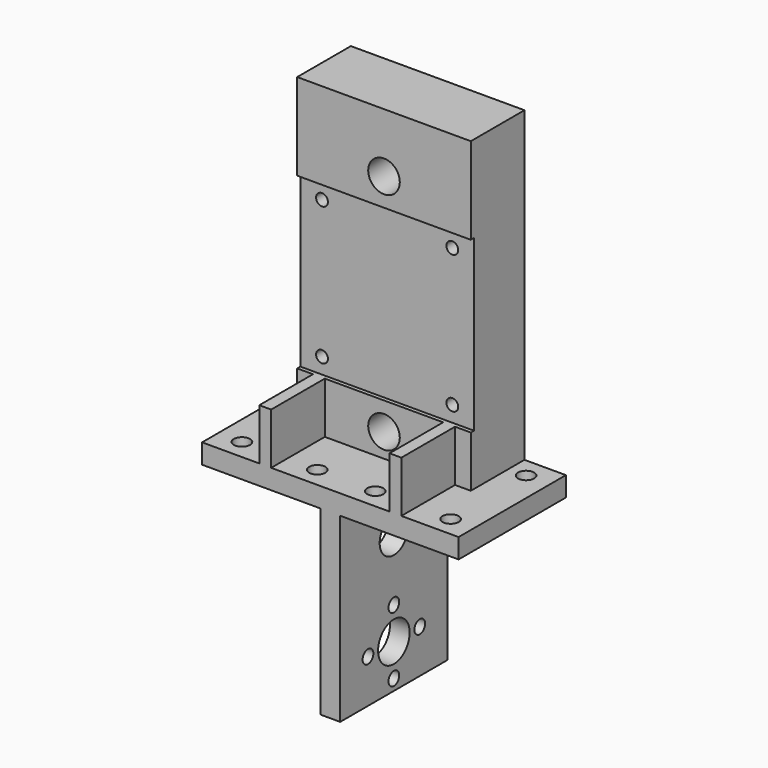
from build123d import *

# Parameters (mm, degrees)
BOX001_W        = 65
BOX001_H        = 34
BOX001_DEPTH    = 5
BOX_W           = 5
BOX_H           = 34
BOX_DEPTH       = 46
SKETCH_R        = 2.05
POCKET_DEPTH    = 5
SKETCH001_R     = 5
SKETCH001_R_2   = 1.7
POCKET001_DEPTH = 5
SKETCH002_R     = 4.5
POCKET002_DEPTH = 5
BOX002_W        = 44
BOX002_H        = 17
BOX002_DEPTH    = 78
SKETCH003_R     = 4
SKETCH003_R_2   = 1.5
POCKET003_DEPTH = 17.001
SKETCH004_W     = 44
SKETCH004_H     = 43
POCKET004_DEPTH = 1
SKETCH005_W     = 3
SKETCH005_H     = 13
PAD_DEPTH       = 17


with BuildPart() as cubo001:
    # Box001 → Box001 (new body)
    with BuildSketch(Plane(origin=(-30, -2, 46), x_dir=(1, 0, 0), z_dir=(0, 0, 1))):
        with Locations((32.5, 17)):
            Rectangle(BOX001_W, BOX001_H)
    extrude(amount=BOX001_DEPTH)


with BuildPart() as pocket002:
    # Box → Box (new body)
    with BuildSketch(Plane(origin=(0, -2, 0), x_dir=(1, 0, 0), z_dir=(0, 0, 1))):
        with Locations((2.5, 17)):
            Rectangle(BOX_W, BOX_H)
    extrude(amount=BOX_DEPTH)

    # Fusion: union Cubo001
    add(cubo001.part)

    # Sketch → Pocket (cut)
    with BuildSketch(Plane.XY.offset(51)):
        with Locations((-36.05, -7.05)):
            Circle(SKETCH_R)
        with Locations((28.95, 3.05)):
            Circle(SKETCH_R)
        with Locations((-55.15, -7.05)):
            Circle(SKETCH_R)
        with Locations((9.85, 3.05)):
            Circle(SKETCH_R)
        with Locations((-4.85, 3.05)):
            Circle(SKETCH_R)
        with Locations((-23.95, 3.05)):
            Circle(SKETCH_R)
        with Locations((-23.95, 26.95)):
            Circle(SKETCH_R)
        with Locations((-4.85, 26.95)):
            Circle(SKETCH_R)
        with Locations((9.85, 26.95)):
            Circle(SKETCH_R)
        with Locations((28.95, 26.95)):
            Circle(SKETCH_R)
    extrude(amount=-POCKET_DEPTH, mode=Mode.SUBTRACT)

    # Sketch001 → Pocket001 (cut)
    with BuildSketch(Plane.YZ.offset(5)):
        with Locations((15, 11)):
            Circle(SKETCH001_R)
        with Locations((15, 19.2)):
            Circle(SKETCH001_R_2)
        with Locations((23.2, 11)):
            Circle(SKETCH001_R_2)
        with Locations((15, 2.8)):
            Circle(SKETCH001_R_2)
        with Locations((6.8, 11)):
            Circle(SKETCH001_R_2)
    extrude(amount=-POCKET001_DEPTH, mode=Mode.SUBTRACT)

    # Sketch002 → Pocket002 (cut)
    with BuildSketch(Plane.YZ.offset(5)):
        with Locations((15, 34.8)):
            Circle(SKETCH002_R)
    extrude(amount=-POCKET002_DEPTH, mode=Mode.SUBTRACT)


with BuildPart() as fusion001002:
    # Box002 → Box002 (new body)
    with BuildSketch(Plane(origin=(-19.5, 15, 51), x_dir=(1, 0, 0), z_dir=(0, 0, 1))):
        with Locations((22, 8.5)):
            Rectangle(BOX002_W, BOX002_H)
    extrude(amount=BOX002_DEPTH)

    # Sketch003 → Pocket003 (cut, through all)
    with BuildSketch(Plane(origin=(-19.5, 15, 51), x_dir=(1, 0, 0), z_dir=(0, -1, 0))):
        with Locations((22, 6)):
            Circle(SKETCH003_R)
        with Locations((22, 63)):
            Circle(SKETCH003_R)
        with Locations((5.485017, 17)):
            Circle(SKETCH003_R_2)
        with Locations((38.514983, 17)):
            Circle(SKETCH003_R_2)
        with Locations((5.485017, 52)):
            Circle(SKETCH003_R_2)
        with Locations((38.514983, 52)):
            Circle(SKETCH003_R_2)
    extrude(amount=-POCKET003_DEPTH, mode=Mode.SUBTRACT)

    # Sketch004 → Pocket004 (cut)
    with BuildSketch(Plane(origin=(-19.5, 15, 51), x_dir=(1, 0, 0), z_dir=(0, -1, 0))):
        with Locations((22, 34.5)):
            Rectangle(SKETCH004_W, SKETCH004_H)
    extrude(amount=-POCKET004_DEPTH, mode=Mode.SUBTRACT)

    # Sketch005 → Pad (new body)
    with BuildSketch(Plane(origin=(-19.5, 15, 51), x_dir=(1, 0, 0), z_dir=(0, -1, 0))):
        with Locations((38.5, 6.5)):
            Rectangle(SKETCH005_W, SKETCH005_H)
        with Locations((5.5, 6.5)):
            Rectangle(SKETCH005_W, SKETCH005_H)
    extrude(amount=PAD_DEPTH)

    # Fusion001002: union Pocket002
    add(pocket002.part)


solid = fusion001002.part
